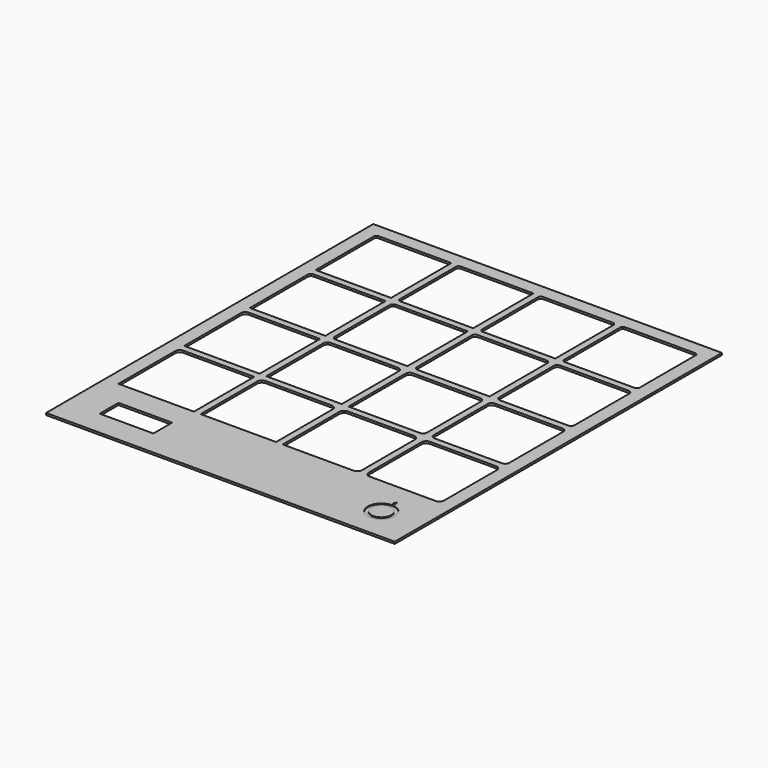
from build123d import *

# Parameters (mm, degrees)
SKETCH_W                     = 520
SKETCH_H                     = 610
PAD_DEPTH                    = 3
SKETCH001_W                  = 112.5
SKETCH001_H                  = 112.5
POCKET_DEPTH                 = 5
SKETCH001_LINEARPATTERN_2_W  = 112.5
SKETCH001_LINEARPATTERN_2_H  = 112.5
POCKET_LINEARPATTERN_2_DEPTH = 5
SKETCH001_LINEARPATTERN_3_W  = 112.5
SKETCH001_LINEARPATTERN_3_H  = 112.5
POCKET_LINEARPATTERN_3_DEPTH = 5
SKETCH001_LINEARPATTERN_4_W  = 112.5
SKETCH001_LINEARPATTERN_4_H  = 112.5
POCKET_LINEARPATTERN_4_DEPTH = 5
LINEARPATTERN001_COUNT       = 4
LINEARPATTERN001_PITCH       = 122.5
FILLET_R                     = 4
FILLET001_R                  = 5
FILLET002_R                  = 6
FILLET003_R                  = 7
SKETCH002_R                  = 20
SKETCH002_R_2                = 15
POCKET001_DEPTH              = 1
SKETCH003_W                  = 80
SKETCH003_H                  = 35
POCKET002_DEPTH              = 5


with BuildPart() as part:
    # Sketch → Pad (new body)
    with BuildSketch(Plane.XY):
        with Locations((0, -45)):
            Rectangle(SKETCH_W, SKETCH_H)
    extrude(amount=-PAD_DEPTH)

    # Sketch001 (on Face5 of Pad) → Pocket (cut)
    with BuildSketch(Plane.XY):
        with Locations((-183.75, 183.75)):
            Rectangle(SKETCH001_W, SKETCH001_H)
    pocket = extrude(amount=-POCKET_DEPTH, mode=Mode.SUBTRACT)

    # Sketch001 LinearPattern 2 → Pocket LinearPattern 2 (cut)
    with BuildSketch(Plane(origin=(122.5, 0, 0), x_dir=(1, 0, 0), z_dir=(0, 0, 1))):
        with Locations((-183.75, 183.75)):
            Rectangle(SKETCH001_LINEARPATTERN_2_W, SKETCH001_LINEARPATTERN_2_H)
    pocket_linearpattern_2 = extrude(amount=-POCKET_LINEARPATTERN_2_DEPTH, mode=Mode.SUBTRACT)

    # Sketch001 LinearPattern 3 → Pocket LinearPattern 3 (cut)
    with BuildSketch(Plane(origin=(245, 0, 0), x_dir=(1, 0, 0), z_dir=(0, 0, 1))):
        with Locations((-183.75, 183.75)):
            Rectangle(SKETCH001_LINEARPATTERN_3_W, SKETCH001_LINEARPATTERN_3_H)
    pocket_linearpattern_3 = extrude(amount=-POCKET_LINEARPATTERN_3_DEPTH, mode=Mode.SUBTRACT)

    # Sketch001 LinearPattern 4 → Pocket LinearPattern 4 (cut)
    with BuildSketch(Plane(origin=(367.5, 0, 0), x_dir=(1, 0, 0), z_dir=(0, 0, 1))):
        with Locations((-183.75, 183.75)):
            Rectangle(SKETCH001_LINEARPATTERN_4_W, SKETCH001_LINEARPATTERN_4_H)
    pocket_linearpattern_4 = extrude(amount=-POCKET_LINEARPATTERN_4_DEPTH, mode=Mode.SUBTRACT)

    # LinearPattern001: Pocket, Pocket LinearPattern 2, Pocket LinearPattern 3, Pocket LinearPattern 4 ×4
    with Locations(*[(0, -i * LINEARPATTERN001_PITCH, 0) for i in range(1, LINEARPATTERN001_COUNT)]):
        add(pocket, mode=Mode.SUBTRACT)
        add(pocket_linearpattern_2, mode=Mode.SUBTRACT)
        add(pocket_linearpattern_3, mode=Mode.SUBTRACT)
        add(pocket_linearpattern_4, mode=Mode.SUBTRACT)

    # Fillet
    fillet_edges = [part.edges().sort_by_distance(p)[0] for p in [
        (-240, 240, -1.5),
        (-117.5, 240, -1.5),
        (-117.5, 127.5, -1.5),
        (5, 240, -1.5),
        (117.5, 240, -1.5),
        (5, 127.5, -1.5),
        (127.5, 127.5, -1.5),
        (127.5, 240, -1.5),
        (240, 240, -1.5),
        (240, 127.5, -1.5),
    ]]
    fillet(fillet_edges, radius=FILLET_R)

    # Fillet001
    fillet001_edges = [part.edges().sort_by_distance(p)[0] for p in [
        (-240, 117.5, -1.5),
        (-117.5, 117.5, -1.5),
        (5, 117.5, -1.5),
        (127.5, 117.5, -1.5),
        (240, 117.5, -1.5),
        (240, 5, -1.5),
        (127.5, 5, -1.5),
        (117.5, 117.5, -1.5),
        (5, 5, -1.5),
        (-117.5, 5, -1.5),
    ]]
    fillet(fillet001_edges, radius=FILLET001_R)

    # Fillet002
    fillet002_edges = [part.edges().sort_by_distance(p)[0] for p in [
        (-240, -5, -1.5),
        (-117.5, -5, -1.5),
        (5, -5, -1.5),
        (127.5, -5, -1.5),
        (240, -5, -1.5),
        (240, -117.5, -1.5),
        (127.5, -117.5, -1.5),
        (117.5, -5, -1.5),
        (117.5, -117.5, -1.5),
        (-5, -5, -1.5),
    ]]
    fillet(fillet002_edges, radius=FILLET002_R)

    # Fillet003
    fillet003_edges = [part.edges().sort_by_distance(p)[0] for p in [
        (-240, -127.5, -1.5),
        (-117.5, -127.5, -1.5),
        (5, -127.5, -1.5),
        (127.5, -127.5, -1.5),
        (240, -127.5, -1.5),
        (240, -240, -1.5),
        (127.5, -240, -1.5),
        (117.5, -127.5, -1.5),
        (117.5, -240, -1.5),
        (-5, -127.5, -1.5),
    ]]
    fillet(fillet003_edges, radius=FILLET003_R)

    # Sketch002 (on Face1 of Fillet003) → Pocket001 (cut)
    with BuildSketch(Plane.XY):
        with Locations((200, -300)):
            Circle(SKETCH002_R)
        with Locations((200, -300)):
            Circle(SKETCH002_R_2, mode=Mode.SUBTRACT)
        Polygon((200.37776, -271.535898), (197.37776, -276.732051), (203.37776, -276.732051), align=None)
    extrude(amount=-POCKET001_DEPTH, mode=Mode.SUBTRACT)

    # Sketch003 (on Face1 of Pocket001) → Pocket002 (cut)
    with BuildSketch(Plane.XY):
        with Locations((-170, -295)):
            Rectangle(SKETCH003_W, SKETCH003_H)
    extrude(amount=-POCKET002_DEPTH, mode=Mode.SUBTRACT)


solid = part.part
